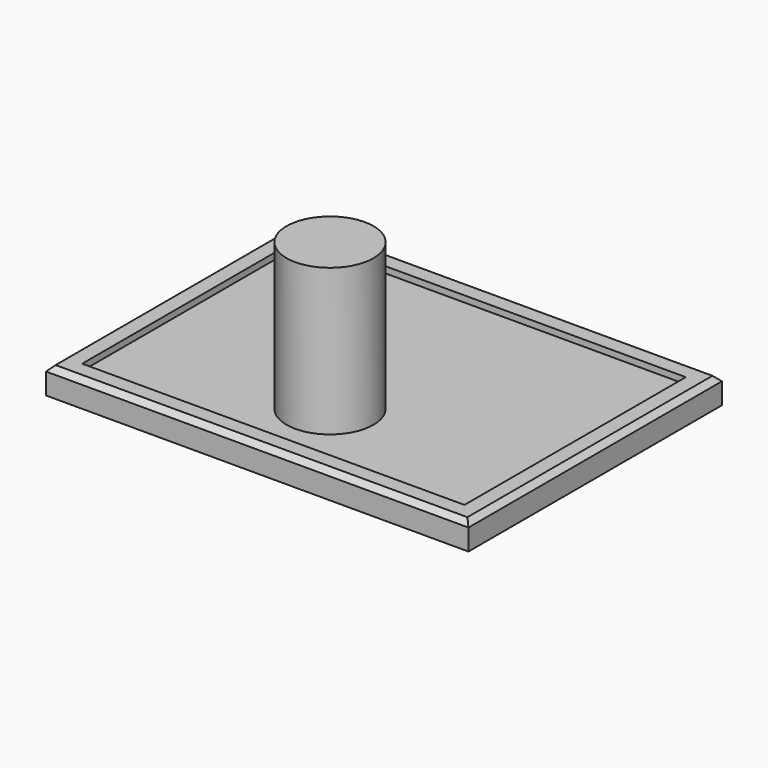
from build123d import *

# Parameters (mm, degrees)
F0_W     = 400
F0_H     = 300
F1_DEPTH = 25
F2_T     = -19
F3_SIZE  = 5
F5_R     = 41.152145
F4_DEPTH = 138.924479


with BuildPart() as f1:
    # F0 (on Top) → F1 (new body)
    with BuildSketch(Plane.XY):
        Rectangle(F0_W, F0_H)
    extrude(amount=F1_DEPTH)

    # F2
    f2_openings = [f1.faces().sort_by_distance(p)[0] for p in [
        (0, 0, 25),
    ]]
    offset(amount=F2_T, openings=f2_openings)

    # F3
    f3_edges = [f1.edges().sort_by_distance(p)[0] for p in [
        (-200, 0, 25),
        (0, 150, 25),
        (200, 0, 25),
        (0, -150, 25),
    ]]
    chamfer(f3_edges, length=F3_SIZE)

    # F5 (on face) → F4 (join)
    with BuildSketch(Plane.XY.offset(19)):
        with Locations((0, -63.907109)):
            Circle(F5_R)
    extrude(amount=F4_DEPTH)


solid = f1.part
